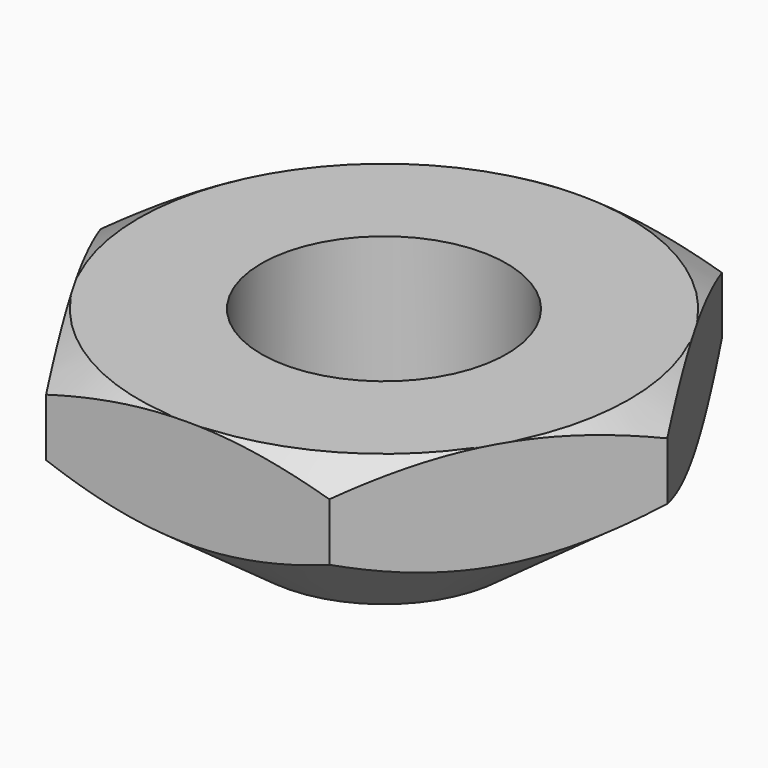
from build123d import *

# Parameters (mm, degrees)
PAD_DEPTH = 4


with BuildPart() as tapered_nut_section_revolution:
    # Sketch007 → Revolution001 (revolve)
    with BuildSketch(Plane.XZ):
        Polygon((-2.5, 0), (-6.674711, 3.033105), (-5, 4), (-2.5, 4), align=None)
    revolve(axis=Axis((0, 0, 0), (0, 0, 1)))


with BuildPart() as tapered_nut_prism_section_common:
    # Sketch008 → Pad (new body)
    with BuildSketch(Plane.XY):
        Polygon((-2.886751, 5), (-5.773503, 0), (-2.886751, -5), (2.886751, -5), (5.773503, 0), (2.886751, 5), align=None)
    extrude(amount=PAD_DEPTH)

    # Common: intersect tapered-nut-section-revolution
    add(tapered_nut_section_revolution.part, mode=Mode.INTERSECT)


solid = tapered_nut_prism_section_common.part
